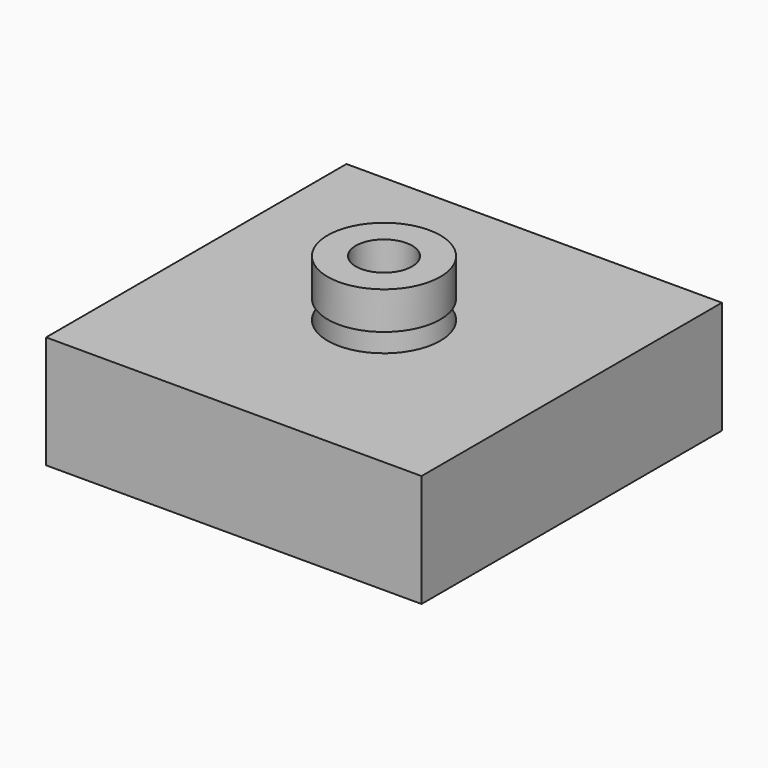
from build123d import *

# Parameters (mm, degrees)
F0_W     = 100
F0_H     = 100
F1_DEPTH = 30
F2_R     = 15
F3_DEPTH = 30.001
F4_R     = 15
F4_R_2   = 7.5
F5_DEPTH = 10


with BuildPart() as f1:
    # F0 (on Top) → F1 (new body)
    with BuildSketch(Plane.XY):
        Rectangle(F0_W, F0_H)
    extrude(amount=-F1_DEPTH)

    # F2 (on face) → F3 (cut, through all)
    with BuildSketch(Plane.XY):
        Circle(F2_R)
    extrude(amount=-F3_DEPTH, mode=Mode.SUBTRACT)


with BuildPart() as f5:
    # F4 (on Top) → F5 (new body)
    with BuildSketch(Plane.XY):
        Circle(F4_R)
        Circle(F4_R_2, mode=Mode.SUBTRACT)
    extrude(amount=-F5_DEPTH)


with BuildPart() as f5_1:
    # F6: moved
    add(f5.part.moved(Location((0, 0, 15))))


solid = Compound([f1.part, f5_1.part])
